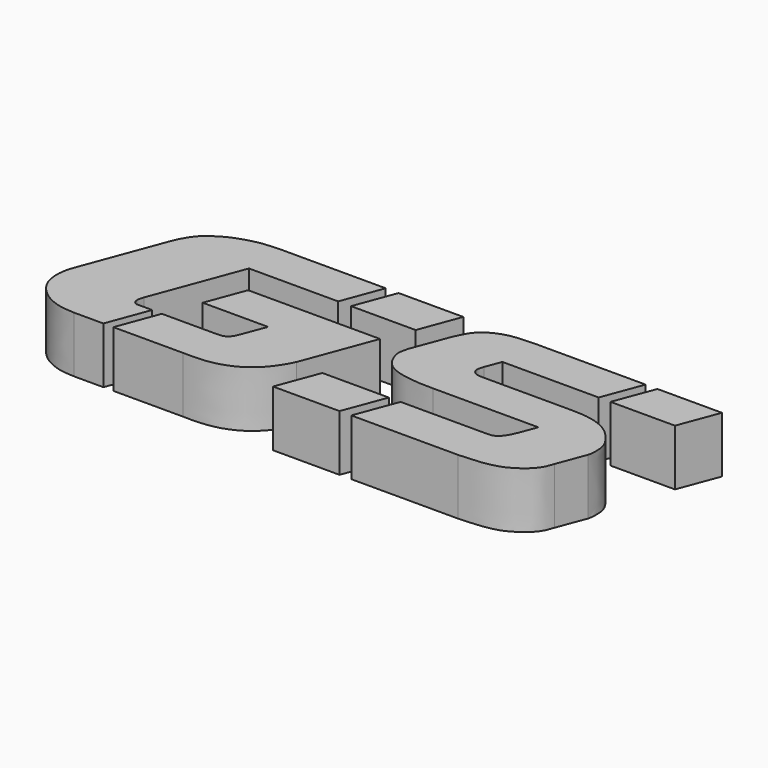
from build123d import *

# Parameters (mm, degrees)
F1_DEPTH = 10
F2_SCALE = 0.5


with BuildPart() as f1:
    # F0 (on Top) → F1 (new body)
    with BuildSketch(Plane.XY):
        Polygon((1.6798144523, 15.4610048802), (-9.8423155406, 15.4610048802), (-12.5382905826, 8.2384571433), (-1.0161605896, 8.2384571433), align=None)
    extrude(amount=F1_DEPTH)


with BuildPart() as f1b:
    # F0 (on Top) → F1, piece 2 (new body)
    with BuildSketch(Plane.XY):
        with BuildLine():
            Line((31.5520013537, 8.2739643018), (34.2298952551, 15.3879662976))
            Line((34.2298952551, 15.3879662976), (14.2556849556, 15.3879662976))
            add(Edge.make_bspline(
                [(14.2556849556, 15.3879662976), (12.9182900599, 15.318447481), (10.2493388887, 15.270023053), (7.550740642, 14.1593033694), (5.4639015019, 12.6025927192), (4.6481175508, 10.7424072779), (4.2061340321, 9.7855974766)],
                knots=[0, 0, 0, 0, 0.2856835847, 0.526596047, 0.7509208402, 1, 1, 1, 1], degree=3))
            Line((4.2061340321, 9.7855974766), (1.7452017637, 3.2479683869))
            add(Edge.make_bspline(
                [(1.7452017637, 3.2479683869), (1.5855251177, 2.6608020227), (1.2767421922, 1.525262986), (1.6384373199, 0.0155335464), (2.5715717394, -1.8697695601), (4.470523833, -3.099198899), (6.8198276214, -3.7058392314), (10.0244667151, -4.0059167431), (11.3019958488, -3.9993287733), (11.82808718, -3.9847810777)],
                knots=[0, 0, 0, 0, 0.1304621293, 0.2515157239, 0.3920310013, 0.5369005904, 0.69213352, 0.868948903, 1, 1, 1, 1], degree=3))
            Line((11.82808718, -3.9847810777), (30.6075344822, -3.9847810777))
            Line((30.6075344822, -3.9847810777), (29.4978675404, -6.9326845904))
            add(Edge.make_bspline(
                [(29.4978675404, -6.9326845904), (29.2272964095, -7.5883833519), (28.9310754103, -8.1770762358), (28.2916044443, -9.2486180137), (27.3674667873, -9.9152323385), (26.7220668085, -9.9671627272), (26.3395656704, -9.9768359214)],
                knots=[0, 0, 0, 0, 0.2794811028, 0.5264715397, 0.7664073309, 1, 1, 1, 1], degree=3))
            Line((26.3395656704, -9.9768359214), (10.8651381114, -9.9768359214))
            Line((10.8651381114, -9.9768359214), (8.0522268207, -17.4495205283))
            Line((8.0522268207, -17.4495205283), (27.0417786331, -17.4495205283))
            add(Edge.make_bspline(
                [(27.0417786331, -17.4495205283), (27.9246544569, -17.4478060939), (29.6254645407, -17.2712335413), (31.3786151577, -17.1762294961), (33.8412885378, -16.6615014621), (35.6744850296, -15.7310114772), (37.6513234852, -14.283783044), (38.8619896424, -12.6351293489), (39.085167986, -11.6511197985), (39.2652382821, -11.2350754368)],
                knots=[0, 0, 0, 0, 0.158634688, 0.2911785151, 0.4451138793, 0.5883481345, 0.7424993653, 0.8825137802, 1, 1, 1, 1], degree=3))
            Line((39.2652382821, -11.2350754368), (41.1812918513, -6.144952595))
            add(Edge.make_bspline(
                [(41.1812918513, -6.144952595), (41.3400428048, -5.6361489517), (41.4043334874, -4.4094448982), (41.2517309056, -2.602781953), (40.2982952818, -1.0936304484), (38.92786243, 0.6118651627), (37.075052164, 1.9020755524), (34.7689652971, 2.687879018), (32.669767691, 2.9120969702), (31.5302192104, 2.9426367541), (30.9958774596, 2.9454897158)],
                knots=[0, 0, 0, 0, 0.1170547548, 0.2359162937, 0.3534445309, 0.4844045339, 0.6179246992, 0.7565550005, 0.8857561082, 1, 1, 1, 1], degree=3))
            Line((30.9958774596, 2.9454897158), (15.2026992291, 2.9454897158))
            add(Edge.make_bspline(
                [(15.2026992291, 2.9454897158), (14.6125216653, 2.9171962372), (13.9477060384, 3.0491445565), (13.3591704733, 3.4490340972), (13.0727253555, 3.958543048), (13.0643952828, 4.6636994972), (13.2421126191, 5.2065719528), (13.3562046249, 5.5087147641)],
                knots=[0, 0, 0, 0, 0.2564525737, 0.4356532792, 0.6015691083, 0.7858759711, 1, 1, 1, 1], degree=3))
            Line((13.3562046249, 5.5087147641), (14.3971158978, 8.2739643018))
            Line((14.3971158978, 8.2739643018), (31.5520013537, 8.2739643018))
        make_face()
    extrude(amount=F1_DEPTH)


with BuildPart() as f1c:
    # F0 (on Top) → F1, piece 3 (new body)
    with BuildSketch(Plane.XY):
        Polygon((47.8241950751, 15.3879662976), (36.3377877078, 15.3879662976), (33.6598938064, 8.2739643018), (45.1463011737, 8.2739643018), align=None)
    extrude(amount=F1_DEPTH)


with BuildPart() as f1d:
    # F0 (on Top) → F1, piece 4 (new body)
    with BuildSketch(Plane.XY):
        Polygon((5.9615490027, -17.4495205283), (8.7744602934, -9.9768359214), (-3.0738636851, -9.9768359214), (-5.8867749758, -17.4495205283), align=None)
    extrude(amount=F1_DEPTH)


with BuildPart() as f1e:
    # F0 (on Top) → F1, piece 5 (new body)
    with BuildSketch(Plane.XY):
        with BuildLine():
            Line((-3.2161034005, 3.0435457093), (-26.7264193217, 3.0435457093))
            Line((-26.7264193217, 3.0435457093), (-29.2988789907, -3.8481029415))
            Line((-29.2988789907, -3.8481029415), (-17.6459828099, -3.8481029415))
            Line((-17.6459828099, -3.8481029415), (-18.9738128523, -7.3283694545))
            add(Edge.make_bspline(
                [(-22.0175594124, -10.000864182), (-21.5104641641, -10.0018548572), (-20.9056051996, -9.9596214023), (-20.211419757, -9.6444393709), (-19.6403685958, -8.9974193461), (-19.3004057902, -8.2581773763), (-19.0792271814, -7.6154167236), (-18.9738128523, -7.3283694545)],
                knots=[0, 0, 0, 0, 0.2271425932, 0.4043536155, 0.5972285559, 0.7904532189, 1, 1, 1, 1], degree=3))
            Line((-22.0175594124, -10.000864182), (-31.6512880687, -10.000864182))
            Line((-31.6512880687, -10.000864182), (-34.3976187629, -17.3583152828))
            Line((-34.3976187629, -17.3583152828), (-22.0175594124, -17.3583152828))
            add(Edge.make_bspline(
                [(-7.9423541296, -9.6181336371), (-8.2280590266, -10.2924787331), (-9.3154829553, -12.1779094886), (-10.7903615475, -13.9245811421), (-12.5697016683, -15.4112785068), (-14.8442130332, -16.5690215747), (-17.4032187898, -17.2356217832), (-20.0824791313, -17.4160588906), (-21.3511032311, -17.3680331066), (-22.0175594124, -17.3583152828)],
                knots=[0, 0, 0, 0, 0.1531567198, 0.293827285, 0.4307808623, 0.5756616472, 0.7249346909, 0.8731159043, 1, 1, 1, 1], degree=3))
            Line((-7.9423541296, -9.6181336371), (-3.2161034005, 3.0435457093))
        make_face()
    extrude(amount=F1_DEPTH)


with BuildPart() as f1f:
    # F0 (on Top) → F1, piece 6 (new body)
    with BuildSketch(Plane.XY):
        with BuildLine():
            Line((-14.8325067722, 8.2384571433), (-12.1365317302, 15.4610048802))
            Line((-12.1365317302, 15.4610048802), (-30.6699359657, 15.4610048802))
            add(Edge.make_bspline(
                [(-44.5009695918, 7.5715373884), (-44.3154428077, 8.0414451635), (-44.0236458558, 8.9062702249), (-42.7342606305, 11.0799694492), (-41.4249644873, 12.2836893482), (-40.0548123534, 13.1596816409), (-38.6432967346, 13.9547846638), (-36.9449399935, 14.5475817938), (-35.121139787, 15.071176156), (-33.4357463258, 15.3538940195), (-31.7010379145, 15.379644822), (-31.1074664977, 15.4499422904), (-30.6699359657, 15.4610048802)],
                knots=[0, 0, 0, 0, 0.0922877464, 0.2127905816, 0.3164196976, 0.4131980319, 0.5107731622, 0.6139865344, 0.7198113273, 0.8218017998, 0.9204026867, 1, 1, 1, 1], degree=3))
            Line((-44.5009695918, 7.5715373884), (-49.8441306322, -6.7428516838))
            add(Edge.make_bspline(
                [(-41.3861460984, -17.3583152828), (-42.0330426296, -17.3266412136), (-43.3180431359, -17.2767277739), (-45.1402816745, -16.8437651157), (-46.799744921, -16.0592687072), (-48.0035503332, -15.1883157693), (-49.2330856557, -13.9304775934), (-50.206613154, -12.2598995653), (-50.5004463459, -10.1987959724), (-50.3982253384, -8.7149690359), (-50.175699617, -7.674403307), (-49.8441306322, -6.7428516838)],
                knots=[0, 0, 0, 0, 0.114953521, 0.2282718548, 0.3394504075, 0.4399752619, 0.5484875575, 0.6637873908, 0.7819757271, 0.8793931407, 1, 1, 1, 1], degree=3))
            Line((-41.3861460984, -17.3583152828), (-36.1826047301, -17.3583152828))
            Line((-36.1826047301, -17.3583152828), (-33.4161661192, -9.9469948449))
            Line((-33.4161661192, -9.9469948449), (-35.5222366377, -9.9469948449))
            add(Edge.make_bspline(
                [(-36.6870143041, -7.734794123), (-36.7537948552, -7.9107282006), (-36.8782128064, -8.3269644362), (-36.9673129945, -8.792237055), (-36.8832882047, -9.3321482221), (-36.6996434666, -9.6769911279), (-36.3714026663, -9.9121699068), (-36.012304191, -9.9732259971), (-35.6476624624, -9.9459682216), (-35.5222366377, -9.9469948449)],
                knots=[0, 0, 0, 0, 0.1651230802, 0.3123615615, 0.4652943882, 0.5961512904, 0.7252140437, 0.8542322244, 1, 1, 1, 1], degree=3))
            Line((-36.6870143041, -7.734794123), (-30.7246464082, 8.2384571433))
            Line((-30.7246464082, 8.2384571433), (-14.8325067722, 8.2384571433))
        make_face()
    extrude(amount=F1_DEPTH)


with BuildPart() as f1f_1:
    # F2: moved
    add(f1f.part.scale(F2_SCALE))


with BuildPart() as f1e_1:
    # F2: moved
    add(f1e.part.scale(F2_SCALE))


with BuildPart() as f1_1:
    # F2: moved
    add(f1.part.scale(F2_SCALE))


with BuildPart() as f1b_1:
    # F2: moved
    add(f1b.part.scale(F2_SCALE))


with BuildPart() as f1c_1:
    # F2: moved
    add(f1c.part.scale(F2_SCALE))


with BuildPart() as f1d_1:
    # F2: moved
    add(f1d.part.scale(F2_SCALE))


with BuildPart() as f1f_2:
    # F3: moved
    add(f1f_1.part.moved(Location((0, 0, 3))))


with BuildPart() as f1e_2:
    # F3: moved
    add(f1e_1.part.moved(Location((0, 0, 3))))


with BuildPart() as f1_2:
    # F3: moved
    add(f1_1.part.moved(Location((0, 0, 3))))


with BuildPart() as f1b_2:
    # F3: moved
    add(f1b_1.part.moved(Location((0, 0, 3))))


with BuildPart() as f1c_2:
    # F3: moved
    add(f1c_1.part.moved(Location((0, 0, 3))))


with BuildPart() as f1d_2:
    # F3: moved
    add(f1d_1.part.moved(Location((0, 0, 3))))


solid = Compound([f1f_2.part, f1e_2.part, f1_2.part, f1b_2.part, f1c_2.part, f1d_2.part])
